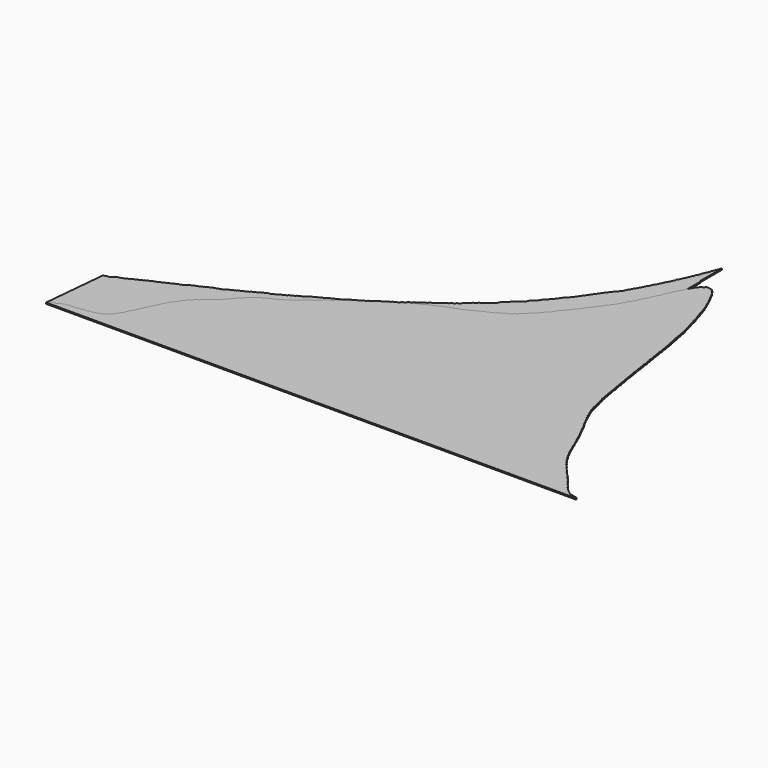
from build123d import *

# Parameters (mm, degrees)
F1_DEPTH = 1
F2_DEPTH = 1


with BuildPart() as f1:
    # F0 (on Top) → F1 (new body)
    with BuildSketch(Plane.XY):
        Polygon((51.299241, 46.09558), (51.127285, 44.28485), (366.225508, 44.337489), (366.225508, 66.342005), (365.559578, 67.015693), (365.559578, 110.128128), (364.941835, 110.76413), (364.941835, 154.650062), (364.354453, 155.30589), (364.354453, 198.67425), (363.758292, 199.277356), (363.758292, 242.55747), (363.071574, 243.252188), (363.071574, 287.074517), (362.403274, 287.750602), (362.403274, 317.814082), (361.821766, 316.803962), (361.821766, 316.075537), (361.147892, 315.409422), (361.147892, 314.755123), (360.55294, 314.167023), (360.55294, 313.281802), (359.845898, 312.837899), (359.845898, 312.25988), (359.211057, 311.553061), (359.211057, 310.948119), (358.683323, 310.360551), (358.683323, 309.53442), (358.028889, 309.123546), (358.028889, 308.392346), (357.319551, 307.72385), (357.319551, 306.721083), (356.643246, 306.052566), (356.643246, 305.402564), (356.007397, 304.694623), (356.007397, 304.105691), (355.440806, 303.545624), (355.440806, 302.749629), (354.888223, 302.134395), (354.888223, 300.990998), (354.302632, 300.339013), (354.302632, 299.436036), (353.601561, 298.995882), (353.601561, 298.484868), (352.982796, 297.873229), (352.982796, 297.080876), (352.305949, 296.463609), (352.276156, 295.922741), (351.701445, 295.282871), (351.701445, 294.664854), (351.056221, 293.946475), (351.056221, 293.346944), (350.526974, 292.823792), (350.526974, 292.275233), (349.838826, 291.509062), (349.838826, 290.956507), (349.220596, 290.268183), (349.220596, 289.526379), (348.658875, 288.971126), (348.658875, 288.366982), (347.941956, 287.71317), (347.941956, 287.166985), (347.350474, 286.508441), (347.350474, 285.904531), (346.756706, 285.3176), (346.756706, 284.55233), (346.083625, 283.938497), (346.083625, 283.358051), (345.407871, 282.690078), (345.407871, 282.086213), (344.818715, 281.548917), (344.818715, 280.988797), (343.39872, 279.585153), (343.39872, 279.01959), (342.953742, 278.52416), (342.964522, 277.674477), (341.717468, 276.441783), (341.717468, 275.871469), (341.047231, 275.20895), (341.047231, 274.587258), (340.383704, 273.982137), (340.383704, 273.230431), (339.146418, 272.102058), (339.146418, 271.389124), (337.305824, 269.569725), (337.305824, 268.906495), (336.001777, 267.617464), (336.001777, 267.063842), (334.821907, 265.7502), (334.821907, 265.202309), (332.858698, 263.261706), (332.858698, 262.574394), (331.676879, 261.406183), (331.676879, 260.77535), (329.814009, 258.933932), (329.814009, 258.229089), (327.286505, 255.730689), (327.286505, 254.998312), (325.449842, 253.182799), (325.449842, 252.532176), (323.492786, 250.597656), (323.492786, 250.073121), (322.208703, 248.803824), (322.208703, 248.281553), (319.070368, 245.419472), (319.070368, 244.421935), (315.952362, 241.339833), (315.952362, 240.635222), (314.121664, 238.825604), (314.121664, 238.085086), (310.494081, 234.499276), (310.494081, 233.832418), (297.744751, 221.229896), (297.210946, 221.229896), (294.674635, 218.72279), (293.867201, 218.72279), (293.407589, 218.032524), (292.758971, 218.032524), (292.047501, 217.471397), (291.380801, 217.471397), (290.198654, 216.155219), (289.572776, 216.155219), (288.976312, 215.565623), (288.389024, 215.565623), (287.684143, 214.868858), (286.932081, 214.868858), (286.226302, 213.69768), (285.191685, 213.69768), (284.589499, 213.027219), (283.9584, 213.027219), (283.349991, 212.349828), (282.55037, 212.349828), (281.95402, 211.760345), (281.418493, 211.760345), (280.803144, 211.152082), (280.10146, 211.152082), (279.532522, 210.589695), (278.964655, 210.589695), (278.299034, 209.931739), (277.636098, 209.931739), (276.999086, 209.302062), (276.4115, 209.302062), (275.748014, 208.646216), (275.059182, 208.646216), (274.505824, 208.030119), (273.904039, 208.030119), (273.34407, 207.40666), (272.655761, 207.40666), (272.03092, 206.789014), (271.419565, 206.789014), (270.797223, 206.09611), (270.216187, 206.09611), (269.718856, 205.542391), (268.257485, 205.542391), (267.652839, 204.869191), (267.000943, 204.869191), (266.37429, 204.249753), (265.772514, 204.249753), (265.149236, 203.633652), (263.924293, 203.633652), (263.222516, 202.939956), (262.613504, 202.939956), (262.025952, 202.35917), (261.346012, 202.35917), (260.79762, 201.748601), (259.486303, 201.748601), (258.870542, 201.139931), (257.598256, 201.139931), (256.986737, 200.535453), (256.320378, 200.535453), (255.640179, 199.863087), (254.451759, 199.863087), (253.845364, 199.263674), (253.197216, 199.263674), (252.605319, 198.678593), (251.950173, 198.678593), (251.313329, 198.049083), (250.0236, 198.049083), (249.360591, 197.393709), (248.788228, 197.393709), (248.149276, 196.762114), (247.573102, 196.762114), (246.937945, 196.134271), (246.346932, 196.134271), (245.67169, 195.466804), (245.025531, 195.466804), (244.398072, 194.84657), (243.74947, 194.84657), (243.175969, 194.199614), (242.538945, 194.199614), (241.920605, 193.588394), (241.306935, 193.588394), (240.646988, 192.936047), (240.047322, 192.936047), (239.423379, 192.319289), (238.791421, 192.319289), (238.467827, 191.737263), (237.584203, 191.737263), (236.895666, 191.056654), (236.238715, 191.056654), (235.600427, 190.425716), (235.030626, 190.425716), (234.390825, 189.793282), (233.762417, 189.793282), (232.472658, 188.518375), (231.89798, 188.518375), (230.035245, 186.67709), (229.393506, 186.67709), (228.129029, 185.427174), (227.49541, 185.427174), (226.86018, 184.799259), (226.244732, 184.799259), (225.602657, 184.164577), (224.994566, 184.164577), (224.369433, 183.546642), (223.726571, 182.911183), (223.095016, 182.911183), (222.479299, 182.302555), (221.85057, 182.302555), (221.205682, 181.665093), (219.589502, 180.412114), (218.700027, 180.412114), (216.820076, 178.553811), (216.241962, 178.553811), (214.941517, 177.26834), (214.290378, 177.26834), (212.388262, 175.388128), (211.742669, 175.388128), (210.571334, 174.129829), (209.903657, 174.129829), (209.252238, 173.499256), (208.62551, 173.499256), (208.071902, 172.889457), (207.199678, 172.889457), (206.78857, 172.274664), (206.151754, 171.633452), (205.413938, 171.633452), (203.642935, 169.759423), (203.015193, 169.759423), (202.387899, 169.110864), (201.807208, 168.510489), (201.066375, 168.510489), (200.48666, 167.828858), (199.30908, 166.61136), (198.437348, 166.61136), (196.120009, 164.1168), (195.478976, 164.1168), (193.040589, 161.595757), (192.236066, 161.595757), (190.481126, 159.712225), (189.835533, 159.712225), (186.676845, 156.576797), (186.071187, 156.576797), (183.62947, 154.052311), (182.945073, 154.052311), (181.040198, 152.174369), (180.3976, 152.174369), (177.965215, 149.659531), (177.302808, 149.659531), (174.90328, 147.178664), (174.14546, 147.178664), (172.295143, 145.265626), (171.637788, 145.265626), (170.434064, 144.021097), (169.793129, 144.021097), (169.151694, 143.357919), (168.469414, 143.357919), (167.895552, 142.764604), (167.250171, 142.764604), (166.040484, 141.51391), (165.397584, 141.51391), (164.777018, 140.872308), (164.138675, 140.872308), (163.515876, 140.228398), (162.786007, 140.228398), (162.212742, 139.635701), (161.619574, 139.635701), (161.015639, 139.011294), (160.339996, 139.011294), (159.74738, 138.398589), (159.095585, 138.398589), (158.460182, 137.741647), (157.867044, 137.741647), (157.259716, 137.113732), (156.58012, 137.113732), (155.960951, 136.473573), (155.333236, 136.473573), (154.690832, 135.874748), (154.000282, 135.874748), (151.521648, 133.312093), (150.928209, 133.312093), (145.249739, 127.683774), (142.113837, 124.575567), (142.113837, 124.01852), (134.037897, 115.668823), (133.344039, 115.668823), (129.600651, 111.958495), (128.959462, 111.958495), (125.201588, 108.233808), (124.579899, 108.233808), (119.568324, 103.266494), (119.568324, 102.554455), (117.10181, 100.004332), (117.10181, 99.43752), (115.245351, 97.597456), (115.245351, 96.998997), (113.886272, 95.593848), (113.886272, 94.799675), (112.679487, 94.077161), (112.679487, 93.126588), (112.038792, 92.491551), (112.038792, 91.715395), (111.418254, 91.343873), (111.418254, 90.693153), (110.787951, 90.041485), (110.787951, 89.498587), (110.134533, 88.823019), (110.134533, 88.128343), (109.47925, 87.450847), (109.47925, 86.933769), (108.870323, 86.304202), (108.870323, 85.584134), (108.338746, 85.034537), (108.338746, 84.426306), (107.654318, 83.653338), (107.654318, 83.137393), (106.998794, 82.487658), (106.998794, 81.804134), (106.382269, 81.193054), (106.382269, 80.589116), (105.767311, 79.979589), (105.767311, 79.392679), (105.10799, 78.711008), (105.10799, 77.578224), (104.556583, 77.40096), (104.556583, 76.204412), (103.85865, 75.595863), (103.85865, 74.91266), (103.297226, 74.356194), (103.270769, 73.754899), (102.639039, 73.101754), (102.639039, 72.475486), (102.048361, 71.808396), (102.048361, 71.270555), (101.479897, 70.628553), (101.479897, 70.09048), (100.739682, 69.356803), (100.739682, 68.791129), (100.114675, 68.085269), (100.114675, 67.443356), (99.485338, 66.792686), (99.485338, 66.226006), (98.880548, 65.542978), (98.880548, 65.043904), (98.21523, 64.292518), (97.606962, 63.689621), (97.606962, 63.051745), (96.964848, 62.415303), (96.964848, 61.811745), (96.331391, 61.156816), (96.331391, 60.562965), (91.292389, 55.568465), (90.670705, 55.568465), (90.092504, 54.915466), (89.472406, 54.915466), (88.877015, 54.296888), (88.239834, 54.296888), (87.580741, 53.643617), (86.291552, 53.643617), (85.690069, 53.021745), (83.820455, 53.021745), (83.216105, 52.396909), (80.658264, 52.396909), (80.029985, 51.774179), (76.282665, 51.774179), (75.642421, 51.139588), (71.836226, 51.139588), (71.296391, 50.529919), (64.193293, 50.529919), (63.661858, 49.929734), (61.858445, 49.929734), (61.221684, 49.298596), (59.964616, 49.298596), (59.333979, 48.646582), (58.658712, 48.646582), (58.045667, 47.954232), (57.465862, 47.954232), (56.808501, 47.401562), (54.939814, 47.401562), (54.26309, 46.730815), (52.451618, 46.730815), (51.83721, 46.09558), align=None)
        Polygon((366.225508, 66.342005), (366.225508, 44.337489), (488.595843, 44.28276), (488.595843, 44.834144), (487.937779, 45.584559), (485.511912, 45.584154), (484.840519, 46.228629), (482.90118, 46.228305), (482.326932, 46.77953), (481.71633, 46.779428), (479.667007, 48.620061), (479.171395, 48.667127), (474.716046, 53.174376), (474.715955, 53.719798), (471.601875, 56.870155), (471.601779, 57.446182), (469.746124, 59.323453), (469.745998, 60.080889), (469.210369, 60.595042), (466.001062, 63.675679), (466.001062, 64.353987), (464.09823, 66.18053), (460.94353, 69.371979), (460.943431, 69.967508), (456.656436, 74.400268), (456.656344, 74.948568), (454.106449, 77.528167), (454.106348, 78.130164), (452.247244, 80.010926), (452.247143, 80.616586), (450.930073, 81.833736), (450.929961, 82.502474), (449.622285, 83.757721), (449.622184, 84.363788), (449.014044, 84.829316), (449.014044, 85.705875), (448.390275, 86.266123), (447.781209, 86.951237), (447.781116, 87.51113), (447.243115, 88.122192), (447.243005, 88.779517), (446.557879, 89.34167), (446.557879, 89.921385), (445.837617, 90.64164), (445.8552, 91.27406), (445.254704, 91.678102), (445.25455, 92.596059), (444.571907, 93.251333), (444.571907, 93.889526), (444.018036, 94.386995), (444.032788, 95.066518), (443.362293, 95.746034), (443.362087, 96.978731), (442.727923, 97.624334), (442.727817, 98.258919), (442.087293, 98.834217), (442.081076, 99.467013), (441.504896, 99.984519), (441.504896, 101.338506), (440.958321, 101.922333), (440.933496, 102.531008), (440.237974, 103.176951), (440.23785, 103.922263), (439.656527, 104.419123), (439.656407, 105.137214), (438.972751, 105.778416), (438.972533, 107.082315), (438.356251, 107.646376), (438.34582, 108.325332), (437.685701, 108.878947), (437.685579, 109.613707), (437.160631, 109.923907), (437.160403, 111.29415), (436.451314, 111.909001), (436.451201, 112.588172), (435.784153, 113.319605), (435.784022, 114.103318), (435.226701, 114.603885), (435.226594, 115.24632), (434.616178, 115.832262), (434.616178, 116.429113), (433.977276, 117.043965), (433.977276, 117.674142), (433.342185, 118.257647), (433.34207, 118.946207), (432.715803, 119.508699), (432.698557, 120.327978), (432.086113, 120.878054), (432.086021, 121.431194), (431.474409, 121.830853), (431.474268, 122.673064), (430.815579, 123.2967), (430.815462, 123.994532), (430.174392, 124.570319), (430.174291, 125.1764), (429.591298, 125.861511), (429.591298, 126.434579), (428.932518, 127.058223), (428.906173, 127.681851), (428.326458, 128.024414), (428.33522, 128.586575), (427.649272, 128.937909), (427.64917, 129.547954), (427.015662, 130.293265), (427.003235, 130.964056), (426.444362, 131.498196), (426.444262, 132.094443), (425.748704, 132.81491), (425.748616, 133.336633), (425.180256, 133.994997), (425.180256, 134.584203), (424.559956, 135.160315), (424.559832, 135.906309), (423.911482, 136.142671), (423.911482, 137.190193), (423.308807, 137.786449), (423.30871, 138.368637), (422.656864, 138.954103), (422.652872, 140.340906), (421.964705, 140.958995), (421.979487, 141.505569), (421.403348, 142.140776), (421.41813, 142.746434), (420.685263, 143.366872), (420.685047, 144.658219), (420.158207, 145.131409), (420.158207, 145.889148), (419.563306, 146.199686), (419.563025, 147.880048), (418.896819, 148.470926), (418.896545, 150.109501), (418.33368, 150.615047), (418.333296, 152.914986), (417.704598, 153.518478), (417.704272, 155.466148), (417.11989, 155.99102), (417.119622, 157.596678), (416.41208, 158.432306), (416.411757, 160.365626), (415.763774, 161.073678), (415.763497, 162.732065), (415.151725, 163.400568), (415.151257, 166.20152), (414.518438, 166.895419), (414.517969, 169.706166), (413.8133, 170.426437), (413.812786, 173.50243), (413.222309, 174.129829), (413.221896, 176.604599), (412.780499, 177.254563), (412.779974, 180.39437), (411.966622, 181.124896), (411.966622, 184.2421), (411.360467, 184.743483), (411.359922, 188.00581), (410.756581, 188.54771), (410.756048, 191.737263), (410.145354, 192.406902), (410.144866, 195.331618), (409.478626, 196.104604), (409.478009, 199.799329), (408.898769, 200.390202), (408.898248, 203.508132), (408.192134, 204.142339), (408.19147, 208.113412), (407.575559, 208.666603), (407.574952, 212.300569), (406.974667, 213.127845), (406.974167, 216.121659), (406.319368, 216.963675), (406.318744, 220.701137), (405.741018, 221.220031), (405.740499, 224.3222), (405.07136, 225.016501), (405.070752, 228.654936), (404.411461, 229.340048), (404.410928, 232.525036), (403.844173, 233.109999), (403.84364, 236.296219), (403.279391, 236.837847), (403.278768, 240.564406), (402.608787, 241.339833), (402.608275, 244.403526), (402.010958, 245.083053), (402.010417, 248.31896), (401.394969, 248.993813), (401.394576, 251.349807), (400.698667, 251.929514), (400.698125, 255.168885), (399.977256, 255.774701), (399.976829, 258.328534), (399.424769, 258.824375), (399.424344, 261.36896), (398.819834, 262.033706), (398.819288, 265.300451), (398.222806, 265.836191), (398.222405, 268.236837), (397.55817, 268.965185), (397.557855, 270.853341), (396.937065, 271.350184), (396.936774, 273.08926), (396.285572, 273.859406), (396.285271, 275.664018), (395.749709, 276.145042), (395.749449, 277.699597), (395.095587, 278.286874), (395.097802, 280.127757), (394.495777, 280.668475), (394.495531, 282.142028), (393.879994, 282.694883), (393.879671, 284.629822), (393.219557, 285.222713), (393.219233, 287.166985), (392.642336, 287.750602), (392.64214, 288.922131), (391.998042, 289.394822), (391.997819, 290.730647), (391.24829, 291.403849), (391.248068, 292.730608), (390.718709, 293.20606), (390.718454, 294.735337), (389.986932, 295.392364), (389.986932, 297.164357), (389.426079, 297.668097), (389.425838, 299.111874), (388.816054, 299.780515), (388.815866, 300.905025), (388.191052, 301.466212), (388.19084, 302.736334), (387.521145, 303.379179), (387.52103, 304.06457), (386.884721, 304.708292), (386.88454, 305.789024), (386.286994, 306.410096), (386.286855, 307.241664), (385.653382, 307.84974), (385.653283, 308.445026), (385.03449, 309.123546), (385.034286, 310.34771), (384.396583, 310.959846), (384.396583, 311.554104), (383.691324, 312.231087), (383.691219, 312.86098), (383.110536, 313.448427), (383.110427, 314.101421), (382.485272, 314.733859), (382.485164, 315.377111), (381.870965, 315.998465), (381.870965, 316.579288), (381.215078, 317.168385), (381.215078, 317.84534), (380.614254, 318.453163), (380.614254, 319.029586), (379.971385, 319.60699), (379.971385, 320.34862), (379.348176, 320.714206), (379.348176, 321.724575), (376.966091, 324.134409), (376.966091, 324.831456), (374.916136, 326.672656), (373.067637, 326.672656), (372.474909, 327.27229), (370.573948, 327.27229), (368.651241, 325.371723), (368.096915, 325.371723), (365.526088, 322.830498), (365.526088, 322.286147), (364.258795, 321.033448), (364.258795, 320.384258), (363.667419, 319.799691), (363.667419, 319.063671), (362.403274, 317.814082), (362.403274, 287.750602), (363.071574, 287.074517), (363.071574, 243.252188), (363.758292, 242.55747), (363.758292, 199.277356), (364.354453, 198.67425), (364.354453, 155.30589), (364.941835, 154.650062), (364.941835, 110.76413), (365.559578, 110.128128), (365.559578, 67.015693), align=None)
    extrude(amount=F1_DEPTH)


with BuildPart() as f2:
    # F0 (on Top) → F2 (new body)
    with BuildSketch(Plane.XY):
        Polygon((56.12528, 96.914619), (51.299241, 46.09558), (51.83721, 46.09558), (52.451618, 46.730815), (54.26309, 46.730815), (54.939814, 47.401562), (56.808501, 47.401562), (57.465862, 47.954232), (58.045667, 47.954232), (58.658712, 48.646582), (59.333979, 48.646582), (59.964616, 49.298596), (61.221684, 49.298596), (61.858445, 49.929734), (63.661858, 49.929734), (64.193293, 50.529919), (71.296391, 50.529919), (71.836226, 51.139588), (75.642421, 51.139588), (76.282665, 51.774179), (80.029985, 51.774179), (80.658264, 52.396909), (83.216105, 52.396909), (83.820455, 53.021745), (85.690069, 53.021745), (86.291552, 53.643617), (87.580741, 53.643617), (88.239834, 54.296888), (88.877015, 54.296888), (89.472406, 54.915466), (90.092504, 54.915466), (90.670705, 55.568465), (91.292389, 55.568465), (96.331391, 60.562965), (96.331391, 61.156816), (96.964848, 61.811745), (96.964848, 62.415303), (97.606962, 63.051745), (97.606962, 63.689621), (98.21523, 64.292518), (98.880548, 65.043904), (98.880548, 65.542978), (99.485338, 66.226006), (99.485338, 66.792686), (100.114675, 67.443356), (100.114675, 68.085269), (100.739682, 68.791129), (100.739682, 69.356803), (101.479897, 70.09048), (101.479897, 70.628553), (102.048361, 71.270555), (102.048361, 71.808396), (102.639039, 72.475486), (102.639039, 73.101754), (103.270769, 73.754899), (103.297226, 74.356194), (103.85865, 74.91266), (103.85865, 75.595863), (104.556583, 76.204412), (104.556583, 77.40096), (105.10799, 77.578224), (105.10799, 78.711008), (105.767311, 79.392679), (105.767311, 79.979589), (106.382269, 80.589116), (106.382269, 81.193054), (106.998794, 81.804134), (106.998794, 82.487658), (107.654318, 83.137393), (107.654318, 83.653338), (108.338746, 84.426306), (108.338746, 85.034537), (108.870323, 85.584134), (108.870323, 86.304202), (109.47925, 86.933769), (109.47925, 87.450847), (110.134533, 88.128343), (110.134533, 88.823019), (110.787951, 89.498587), (110.787951, 90.041485), (111.418254, 90.693153), (111.418254, 91.343873), (112.038792, 91.715395), (112.038792, 92.491551), (112.679487, 93.126588), (112.679487, 94.077161), (113.886272, 94.799675), (113.886272, 95.593848), (115.245351, 96.998997), (115.245351, 97.597456), (117.10181, 99.43752), (117.10181, 100.004332), (119.568324, 102.554455), (119.568324, 103.266494), (124.579899, 108.233808), (125.201588, 108.233808), (128.959462, 111.958495), (129.600651, 111.958495), (133.344039, 115.668823), (134.037897, 115.668823), (142.113837, 124.01852), (142.113837, 124.575567), (145.249739, 127.683774), (150.928209, 133.312093), (151.521648, 133.312093), (154.000282, 135.874748), (154.690832, 135.874748), (155.333236, 136.473573), (155.960951, 136.473573), (156.58012, 137.113732), (157.259716, 137.113732), (157.867044, 137.741647), (158.460182, 137.741647), (159.095585, 138.398589), (159.74738, 138.398589), (160.339996, 139.011294), (161.015639, 139.011294), (161.619574, 139.635701), (162.212742, 139.635701), (162.786007, 140.228398), (163.515876, 140.228398), (164.138675, 140.872308), (164.777018, 140.872308), (165.397584, 141.51391), (166.040484, 141.51391), (167.250171, 142.764604), (167.895552, 142.764604), (168.469414, 143.357919), (169.151694, 143.357919), (169.793129, 144.021097), (170.434064, 144.021097), (171.637788, 145.265626), (172.295143, 145.265626), (174.14546, 147.178664), (174.90328, 147.178664), (177.302808, 149.659531), (177.965215, 149.659531), (180.3976, 152.174369), (181.040198, 152.174369), (182.945073, 154.052311), (183.62947, 154.052311), (186.071187, 156.576797), (186.676845, 156.576797), (189.835533, 159.712225), (190.481126, 159.712225), (192.236066, 161.595757), (193.040589, 161.595757), (195.478976, 164.1168), (196.120009, 164.1168), (198.437348, 166.61136), (199.30908, 166.61136), (200.48666, 167.828858), (201.066375, 168.510489), (201.807208, 168.510489), (202.387899, 169.110864), (203.015193, 169.759423), (203.642935, 169.759423), (205.413938, 171.633452), (206.151754, 171.633452), (206.78857, 172.274664), (207.199678, 172.889457), (206.149518, 172.260717), (204.886181, 171.668032), (204.289868, 171.013575), (203.626951, 171.013575), (203.004688, 170.398478), (202.37333, 170.398478), (201.760948, 169.793148), (201.145658, 169.793148), (199.237645, 167.907105), (198.61428, 167.907105), (197.408348, 166.583587), (196.74095, 166.583587), (196.135104, 165.984716), (195.48155, 165.984716), (194.857821, 165.36817), (194.23382, 165.36817), (193.602622, 164.706536), (192.988023, 164.706536), (192.367479, 164.093138), (191.74778, 164.093138), (191.116706, 163.46933), (190.421999, 163.46933), (189.86325, 162.856099), (189.20886, 162.856099), (187.944427, 161.606227), (187.310825, 161.606227), (186.730191, 160.968977), (186.0695, 160.968977), (185.434997, 160.34178), (184.807894, 160.34178), (184.211552, 159.687291), (183.570687, 159.687291), (182.948604, 159.072372), (182.314578, 159.072372), (181.690559, 158.455538), (181.066759, 158.455538), (180.434689, 157.830746), (179.832042, 157.830746), (179.183185, 157.189361), (178.563327, 157.189361), (176.657915, 155.30589), (176.041786, 155.30589), (174.778491, 154.057141), (174.145345, 154.057141), (173.524931, 153.443871), (172.903117, 153.443871), (172.280848, 152.828768), (171.68194, 152.828768), (170.382619, 151.544408), (169.751083, 151.544408), (169.119611, 150.920208), (168.535609, 150.920208), (167.87079, 150.263044), (167.247731, 150.263044), (166.018248, 149.047718), (165.310382, 149.047718), (164.720803, 148.464929), (164.088996, 148.464929), (163.468599, 147.784039), (162.850333, 147.784039), (161.590278, 146.538493), (160.976325, 146.538493), (160.341516, 145.910994), (159.703659, 145.910994), (159.073919, 145.288506), (158.455814, 145.288506), (157.816306, 144.656361), (157.172158, 144.656361), (156.573772, 144.064865), (154.71228, 144.064865), (154.091358, 143.383399), (153.398904, 143.383399), (152.858794, 142.790624), (152.217703, 142.790624), (151.626214, 142.141461), (150.928209, 142.141461), (150.278956, 141.499684), (149.697087, 141.499684), (148.440227, 140.257297), (147.788935, 140.257297), (147.158623, 139.634243), (146.536237, 139.634243), (145.906031, 139.011294), (145.286098, 139.011294), (144.053161, 137.741647), (143.3852, 137.741647), (142.765865, 137.129443), (142.115886, 137.129443), (141.50548, 136.526066), (140.891851, 136.526066), (140.283361, 135.858243), (139.620865, 135.858243), (139.003754, 135.248238), (138.340929, 135.248238), (137.764648, 134.615765), (137.061802, 134.615765), (136.506826, 134.006675), (135.854974, 134.006675), (135.25857, 133.352117), (134.620759, 133.352117), (133.980423, 132.719155), (133.363791, 132.719155), (132.721484, 132.084244), (132.109078, 132.084244), (130.838379, 130.828177), (130.22707, 130.828177), (129.598036, 130.206387), (128.971154, 130.206387), (128.341407, 129.583891), (127.687843, 129.583891), (127.063468, 128.966706), (125.83181, 128.966706), (125.201881, 128.344031), (123.337334, 128.344031), (122.695088, 127.709181), (122.074514, 127.709181), (121.436737, 127.078748), (120.8374, 127.078748), (120.201498, 126.450168), (119.545885, 126.450168), (118.921921, 125.833389), (118.303124, 125.833389), (117.658392, 125.196081), (117.049428, 125.196081), (116.413832, 124.567803), (115.795484, 124.567803), (115.154803, 123.9345), (114.525719, 123.9345), (113.901488, 123.317457), (112.655808, 123.317457), (112.008609, 122.67771), (111.385263, 122.67771), (110.748351, 122.048131), (110.135184, 122.048131), (109.498948, 121.419221), (108.883637, 121.419221), (108.253315, 120.796157), (107.639112, 120.796157), (105.741486, 118.920382), (105.117531, 118.920382), (104.501769, 118.311711), (103.843696, 118.311711), (103.253528, 117.663997), (101.359004, 117.663997), (100.724466, 117.036766), (100.115168, 117.036766), (99.472992, 116.401985), (98.845903, 116.401985), (98.213978, 115.777336), (97.588867, 115.777336), (96.955672, 115.151432), (96.332807, 115.151432), (95.698372, 114.524303), (95.07373, 114.524303), (94.445907, 113.903709), (93.831581, 113.903709), (93.188837, 113.268366), (92.564775, 113.268366), (91.930762, 112.641654), (90.677015, 112.641654), (90.046585, 112.018483), (89.435607, 112.018483), (88.794723, 111.384979), (88.16096, 111.384979), (87.532878, 110.76413), (86.294071, 110.76413), (85.65066, 110.128128), (85.032861, 110.128128), (84.402189, 109.504717), (83.780017, 109.504717), (83.137065, 108.869169), (82.517544, 108.869169), (81.88881, 108.247676), (81.286155, 108.247676), (80.642939, 107.611866), (80.013601, 107.611866), (79.386279, 106.991768), (78.754328, 106.991768), (78.122824, 106.367536), (77.48808, 106.367536), (76.870434, 105.739526), (76.241821, 105.739526), (75.618111, 105.110131), (74.979253, 105.110131), (74.351735, 104.486577), (73.72579, 104.486577), (73.112495, 103.85898), (72.478459, 103.85898), (71.852788, 103.230703), (71.229384, 103.230703), (70.60495, 102.603668), (69.965468, 102.603668), (69.346696, 101.982318), (68.714788, 101.982318), (68.080515, 101.345401), (66.200664, 101.345401), (65.579847, 100.721997), (64.952381, 100.721997), (64.32189, 100.088879), (63.693821, 100.088879), (61.81258, 98.1998), (61.192147, 98.1998), (60.564328, 97.594135), (58.658712, 97.594135), (58.045667, 96.914619), align=None)
        Polygon((361.821766, 316.803962), (362.403274, 317.814082), (362.403274, 331.023037), (361.794412, 331.597537), (361.794412, 353.668511), (361.144012, 352.346957), (361.144012, 351.756279), (360.478699, 351.098627), (360.478699, 349.910635), (359.869063, 349.241555), (359.869063, 348.641249), (359.235138, 347.945511), (359.235138, 346.771508), (358.659309, 346.123874), (358.659309, 344.85445), (357.998117, 344.128788), (357.998117, 343.625886), (357.383951, 342.951834), (357.383951, 341.747557), (356.712004, 341.083348), (356.712004, 340.478817), (356.111662, 339.819938), (356.111662, 338.579168), (355.459189, 337.983459), (355.459189, 337.284859), (354.851528, 336.730063), (354.851528, 336.07141), (354.223295, 335.450411), (354.223295, 334.182982), (353.62009, 333.586723), (353.62009, 332.911711), (352.93257, 332.284003), (352.93257, 331.075742), (352.356826, 330.443859), (352.356826, 329.783694), (351.731539, 329.165608), (351.731539, 328.530401), (351.052374, 327.954262), (351.052374, 327.257691), (350.485166, 326.635177), (350.428542, 326.038913), (349.870275, 325.426211), (349.807147, 324.761464), (349.199772, 324.161083), (349.199772, 323.511571), (348.584076, 322.949439), (348.584076, 321.677404), (347.945523, 321.046203), (347.945523, 320.422747), (347.307672, 319.792241), (347.307672, 319.117099), (346.728383, 318.481326), (346.728383, 317.889843), (346.094336, 317.263097), (346.094336, 316.618408), (345.451705, 315.983176), (345.451705, 315.34), (344.840075, 314.735413), (344.840075, 314.098266), (344.168227, 313.434154), (344.168227, 312.86234), (343.560803, 312.195688), (343.560803, 311.586096), (342.945257, 310.977638), (342.945257, 310.353618), (342.257023, 309.673309), (342.257023, 309.106134), (341.661367, 308.452398), (341.661367, 307.85171), (341.040226, 307.170004), (341.040226, 306.616806), (340.413214, 305.997014), (340.413214, 305.382488), (339.174373, 304.157913), (339.174373, 303.493155), (338.545027, 302.802444), (338.545027, 302.197572), (337.894676, 301.55471), (337.894676, 300.934763), (337.283751, 300.264269), (337.283751, 299.665259), (336.660665, 299.049348), (336.660665, 298.440479), (336.010921, 297.798216), (336.010921, 297.164357), (334.794141, 295.961589), (334.794141, 295.319151), (334.110007, 294.642895), (334.110007, 294.110074), (332.855321, 292.869836), (332.855321, 292.138529), (332.271867, 291.498184), (332.271867, 290.916902), (331.620687, 290.273219), (331.620687, 289.581067), (329.768898, 287.750602), (329.768898, 287.117454), (327.252286, 284.629822), (327.252286, 283.962237), (325.357283, 282.089055), (325.357283, 281.481052), (323.494773, 279.639989), (323.494773, 278.950736), (322.20653, 277.677327), (322.20653, 277.071409), (320.974871, 275.853932), (320.974871, 275.222488), (319.077073, 273.346543), (319.077073, 272.65997), (317.853895, 271.450877), (317.853895, 270.834955), (316.544983, 269.541115), (316.544983, 268.934147), (314.661497, 267.07235), (314.661497, 266.409287), (313.420414, 265.182495), (313.420414, 264.534816), (310.2784, 261.428982), (310.2784, 260.739732), (307.148261, 257.645637), (307.148261, 256.969348), (305.283741, 255.126297), (305.283741, 254.499487), (301.496702, 250.756055), (301.496702, 250.02742), (297.146007, 245.726824), (297.146007, 245.06049), (292.810764, 240.775168), (292.810764, 239.95148), (289.011955, 236.196414), (288.369334, 236.196414), (279.618668, 227.546513), (279.618668, 226.806441), (275.847822, 223.079017), (275.254873, 223.079017), (272.703588, 220.55711), (272.055686, 220.55711), (270.164102, 218.687308), (269.562529, 218.687308), (267.000943, 216.155219), (266.45462, 216.155219), (259.475529, 209.256492), (258.894624, 209.256492), (257.00441, 207.388044), (256.386106, 207.388044), (254.488826, 205.512611), (253.908703, 205.512611), (251.980126, 203.606241), (251.211194, 203.606241), (250.120819, 202.409546), (249.515598, 202.409546), (247.556463, 200.47297), (246.957675, 200.47297), (245.688096, 199.218011), (245.056985, 199.218011), (243.168518, 197.35129), (242.602636, 197.35129), (241.321594, 196.084998), (240.70445, 196.084998), (238.798454, 194.20095), (238.160523, 194.20095), (236.88069, 192.935855), (236.32454, 192.935855), (234.427929, 191.061083), (233.804619, 191.061083), (231.261969, 188.54771), (230.65072, 188.54771), (228.145927, 186.07176), (227.473494, 186.07176), (226.910889, 185.454297), (226.215204, 185.454297), (225.618318, 184.799211), (224.983463, 184.799211), (224.354115, 184.17711), (223.716304, 183.546642), (223.095016, 183.546642), (222.461656, 182.920575), (217.49464, 179.802129), (216.904715, 179.154682), (216.220461, 179.154682), (214.953721, 177.902528), (214.326359, 177.902528), (212.422699, 176.020788), (211.818093, 176.020788), (211.185853, 175.395828), (210.53879, 174.756216), (209.907941, 174.756216), (209.278613, 174.134135), (207.199678, 172.889457), (208.071902, 172.889457), (208.62551, 173.499256), (209.252238, 173.499256), (209.903657, 174.129829), (210.571334, 174.129829), (211.742669, 175.388128), (212.388262, 175.388128), (214.290378, 177.26834), (214.941517, 177.26834), (216.241962, 178.553811), (216.820076, 178.553811), (218.700027, 180.412114), (219.589502, 180.412114), (221.205682, 181.665093), (221.85057, 182.302555), (222.479299, 182.302555), (223.095016, 182.911183), (223.726571, 182.911183), (224.369433, 183.546642), (224.994566, 184.164577), (225.602657, 184.164577), (226.244732, 184.799259), (226.86018, 184.799259), (227.49541, 185.427174), (228.129029, 185.427174), (229.393506, 186.67709), (230.035245, 186.67709), (231.89798, 188.518375), (232.472658, 188.518375), (233.762417, 189.793282), (234.390825, 189.793282), (235.030626, 190.425716), (235.600427, 190.425716), (236.238715, 191.056654), (236.895666, 191.056654), (237.584203, 191.737263), (238.467827, 191.737263), (238.791421, 192.319289), (239.423379, 192.319289), (240.047322, 192.936047), (240.646988, 192.936047), (241.306935, 193.588394), (241.920605, 193.588394), (242.538945, 194.199614), (243.175969, 194.199614), (243.74947, 194.84657), (244.398072, 194.84657), (245.025531, 195.466804), (245.67169, 195.466804), (246.346932, 196.134271), (246.937945, 196.134271), (247.573102, 196.762114), (248.149276, 196.762114), (248.788228, 197.393709), (249.360591, 197.393709), (250.0236, 198.049083), (251.313329, 198.049083), (251.950173, 198.678593), (252.605319, 198.678593), (253.197216, 199.263674), (253.845364, 199.263674), (254.451759, 199.863087), (255.640179, 199.863087), (256.320378, 200.535453), (256.986737, 200.535453), (257.598256, 201.139931), (258.870542, 201.139931), (259.486303, 201.748601), (260.79762, 201.748601), (261.346012, 202.35917), (262.025952, 202.35917), (262.613504, 202.939956), (263.222516, 202.939956), (263.924293, 203.633652), (265.149236, 203.633652), (265.772514, 204.249753), (266.37429, 204.249753), (267.000943, 204.869191), (267.652839, 204.869191), (268.257485, 205.542391), (269.718856, 205.542391), (270.216187, 206.09611), (270.797223, 206.09611), (271.419565, 206.789014), (272.03092, 206.789014), (272.655761, 207.40666), (273.34407, 207.40666), (273.904039, 208.030119), (274.505824, 208.030119), (275.059182, 208.646216), (275.748014, 208.646216), (276.4115, 209.302062), (276.999086, 209.302062), (277.636098, 209.931739), (278.299034, 209.931739), (278.964655, 210.589695), (279.532522, 210.589695), (280.10146, 211.152082), (280.803144, 211.152082), (281.418493, 211.760345), (281.95402, 211.760345), (282.55037, 212.349828), (283.349991, 212.349828), (283.9584, 213.027219), (284.589499, 213.027219), (285.191685, 213.69768), (286.226302, 213.69768), (286.932081, 214.868858), (287.684143, 214.868858), (288.389024, 215.565623), (288.976312, 215.565623), (289.572776, 216.155219), (290.198654, 216.155219), (291.380801, 217.471397), (292.047501, 217.471397), (292.758971, 218.032524), (293.407589, 218.032524), (293.867201, 218.72279), (294.674635, 218.72279), (297.210946, 221.229896), (297.744751, 221.229896), (310.494081, 233.832418), (310.494081, 234.499276), (314.121664, 238.085086), (314.121664, 238.825604), (315.952362, 240.635222), (315.952362, 241.339833), (319.070368, 244.421935), (319.070368, 245.419472), (322.208703, 248.281553), (322.208703, 248.803824), (323.492786, 250.073121), (323.492786, 250.597656), (325.449842, 252.532176), (325.449842, 253.182799), (327.286505, 254.998312), (327.286505, 255.730689), (329.814009, 258.229089), (329.814009, 258.933932), (331.676879, 260.77535), (331.676879, 261.406183), (332.858698, 262.574394), (332.858698, 263.261706), (334.821907, 265.202309), (334.821907, 265.7502), (336.001777, 267.063842), (336.001777, 267.617464), (337.305824, 268.906495), (337.305824, 269.569725), (339.146418, 271.389124), (339.146418, 272.102058), (340.383704, 273.230431), (340.383704, 273.982137), (341.047231, 274.587258), (341.047231, 275.20895), (341.717468, 275.871469), (341.717468, 276.441783), (342.964522, 277.674477), (342.953742, 278.52416), (343.39872, 279.01959), (343.39872, 279.585153), (344.818715, 280.988797), (344.818715, 281.548917), (345.407871, 282.086213), (345.407871, 282.690078), (346.083625, 283.358051), (346.083625, 283.938497), (346.756706, 284.55233), (346.756706, 285.3176), (347.350474, 285.904531), (347.350474, 286.508441), (347.941956, 287.166985), (347.941956, 287.71317), (348.658875, 288.366982), (348.658875, 288.971126), (349.220596, 289.526379), (349.220596, 290.268183), (349.838826, 290.956507), (349.838826, 291.509062), (350.526974, 292.275233), (350.526974, 292.823792), (351.056221, 293.346944), (351.056221, 293.946475), (351.701445, 294.664854), (351.701445, 295.282871), (352.276156, 295.922741), (352.305949, 296.463609), (352.982796, 297.080876), (352.982796, 297.873229), (353.601561, 298.484868), (353.601561, 298.995882), (354.302632, 299.436036), (354.302632, 300.339013), (354.888223, 300.990998), (354.888223, 302.134395), (355.440806, 302.749629), (355.440806, 303.545624), (356.007397, 304.105691), (356.007397, 304.694623), (356.643246, 305.402564), (356.643246, 306.052566), (357.319551, 306.721083), (357.319551, 307.72385), (358.028889, 308.392346), (358.028889, 309.123546), (358.683323, 309.53442), (358.683323, 310.360551), (359.211057, 310.948119), (359.211057, 311.553061), (359.845898, 312.25988), (359.845898, 312.837899), (360.55294, 313.281802), (360.55294, 314.167023), (361.147892, 314.755123), (361.147892, 315.409422), (361.821766, 316.075537), align=None)
    extrude(amount=F2_DEPTH)


solid = Compound([f1.part, f2.part])
